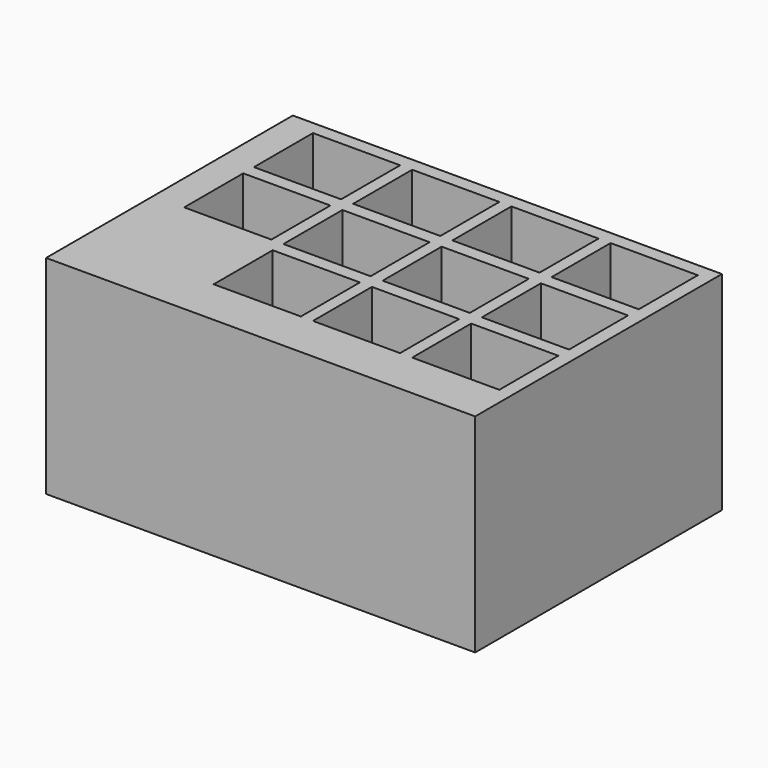
from build123d import *

# Parameters (mm, degrees)
F0_W     = 320
F0_H     = 230
F1_DEPTH = 155
F2_W     = 65
F2_H     = 55
F3_DEPTH = 70


with BuildPart() as f1:
    # F0 (on Top) → F1 (new body)
    with BuildSketch(Plane.XY):
        with Locations((160, 115)):
            Rectangle(F0_W, F0_H)
    extrude(amount=F1_DEPTH)

    # F2 (on face) → F3 (cut)
    with BuildSketch(Plane.XY.offset(155)):
        with Locations((129.5, 127.5)):
            Rectangle(F2_W, F2_H)
        with Locations((129.5, 192.5)):
            Rectangle(F2_W, F2_H)
        with Locations((55.5, 192.5)):
            Rectangle(F2_W, F2_H)
        with Locations((55.5, 127.5)):
            Rectangle(F2_W, F2_H)
        with Locations((129.5, 62.5)):
            Rectangle(F2_W, F2_H)
        with Locations((203.5, 62.5)):
            Rectangle(F2_W, F2_H)
        with Locations((203.5, 127.5)):
            Rectangle(F2_W, F2_H)
        with Locations((203.5, 192.5)):
            Rectangle(F2_W, F2_H)
        with Locations((277.5, 192.5)):
            Rectangle(F2_W, F2_H)
        with Locations((277.5, 127.5)):
            Rectangle(F2_W, F2_H)
        with Locations((277.5, 62.5)):
            Rectangle(F2_W, F2_H)
    extrude(amount=-F3_DEPTH, mode=Mode.SUBTRACT)


solid = f1.part
